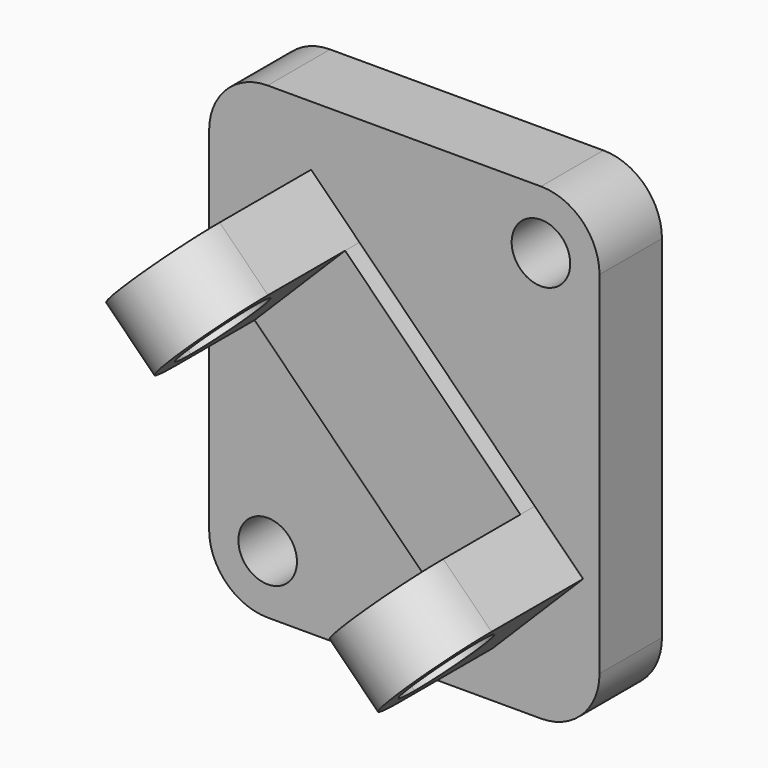
from build123d import *

# Parameters (mm, degrees)
F0_R     = 19.05
F1_DEPTH = 50.8
F2_DEPTH = 62.484
F3_DEPTH = 125.222
F5_DEPTH = 44.45
F7_DEPTH = 44.45
F8_DEPTH = 299.212


with BuildPart() as f1:
    # F0 (on Front) → F1 (new body)
    with BuildSketch(Plane.XZ):
        with BuildLine():
            ThreePointArc((0, 38.1), (11.1592316368, 11.1592316368), (38.1, 0))
            Line((38.1, 0), (215.9, 0))
            ThreePointArc((215.9, 0), (242.8407683632, 11.1592316368), (254, 38.1))
            Line((254, 38.1), (254, 266.7))
            ThreePointArc((254, 266.7), (242.8407683632, 293.6407683632), (215.9, 304.8))
            Line((215.9, 304.8), (38.1, 304.8))
            ThreePointArc((38.1, 304.8), (11.1592316368, 293.6407683632), (0, 266.7))
            Line((0, 266.7), (0, 38.1))
        make_face()
        with Locations((38.1, 38.1)):
            Circle(F0_R, mode=Mode.SUBTRACT)
        Polygon((243.3144801542, 88.8824801542), (184.404, 29.972), (152.9731035763, 61.4028964237), (38.9238964237, 175.4521035763), (7.493, 206.883), (66.4034801542, 265.7934801542), (97.834376578, 234.3625837305), (211.8835837305, 120.313376578), align=None, mode=Mode.SUBTRACT)
        with Locations((215.9, 266.7)):
            Circle(F0_R, mode=Mode.SUBTRACT)
    extrude(amount=F1_DEPTH)

    # F0 (on Front) → F2 (join)
    with BuildSketch(Plane.XZ):
        Polygon((38.9238964237, 175.4521035763), (152.9731035763, 61.4028964237), (211.8835837305, 120.313376578), (97.834376578, 234.3625837305), align=None)
    extrude(amount=F2_DEPTH)

    # F0 (on Front) → F3 (join)
    with BuildSketch(Plane.XZ):
        Polygon((152.9731035763, 61.4028964237), (184.404, 29.972), (243.3144801542, 88.8824801542), (211.8835837305, 120.313376578), align=None)
        Polygon((7.493, 206.883), (38.9238964237, 175.4521035763), (97.834376578, 234.3625837305), (66.4034801542, 265.7934801542), align=None)
    extrude(amount=F3_DEPTH)

    # F4 (on face) → F5 (join)
    with BuildSketch(Plane(origin=(77.216, 0, -77.216), x_dir=(0, 1, 0), z_dir=(0.7071067812, 0, -0.7071067812))):
        with BuildLine():
            Line((-125.222, 151.5867233236), (-125.222, 234.8987233236))
            ThreePointArc((-125.222, 234.8987233236), (-166.878, 193.2427233236), (-125.222, 151.5867233236))
        make_face()
    extrude(amount=-F5_DEPTH)

    # F6 (on face) → F7 (join)
    with BuildSketch(Plane(origin=(-99.695, 0, 99.695), x_dir=(0, -1, 0), z_dir=(-0.7071067812, 0, 0.7071067812))):
        with BuildLine():
            Line((125.222, 164.0327233236), (125.222, 151.5867233236))
            ThreePointArc((125.222, 151.5867233236), (166.878, 193.2427233236), (125.222, 234.8987233236))
            Line((125.222, 234.8987233236), (125.222, 222.4527233236))
            ThreePointArc((125.222, 222.4527233236), (145.8765890785, 213.8973124021), (154.432, 193.2427233236))
            ThreePointArc((154.432, 193.2427233236), (145.8765890785, 172.5881342452), (125.222, 164.0327233236))
        make_face()
    extrude(amount=-F7_DEPTH)

    # F6 (on face) → F8 (cut)
    with BuildSketch(Plane(origin=(-99.695, 0, 99.695), x_dir=(0, -1, 0), z_dir=(-0.7071067812, 0, 0.7071067812))):
        with BuildLine():
            Line((125.222, 222.4527233236), (125.222, 164.0327233236))
            ThreePointArc((125.222, 164.0327233236), (145.8765890785, 172.5881342452), (154.432, 193.2427233236))
            ThreePointArc((154.432, 193.2427233236), (145.8765890785, 213.8973124021), (125.222, 222.4527233236))
        make_face()
        with BuildLine():
            ThreePointArc((125.222, 222.4527233236), (96.012, 193.2427233236), (125.222, 164.0327233236))
            Line((125.222, 164.0327233236), (125.222, 222.4527233236))
        make_face()
    extrude(amount=-F8_DEPTH, mode=Mode.SUBTRACT)


solid = f1.part
